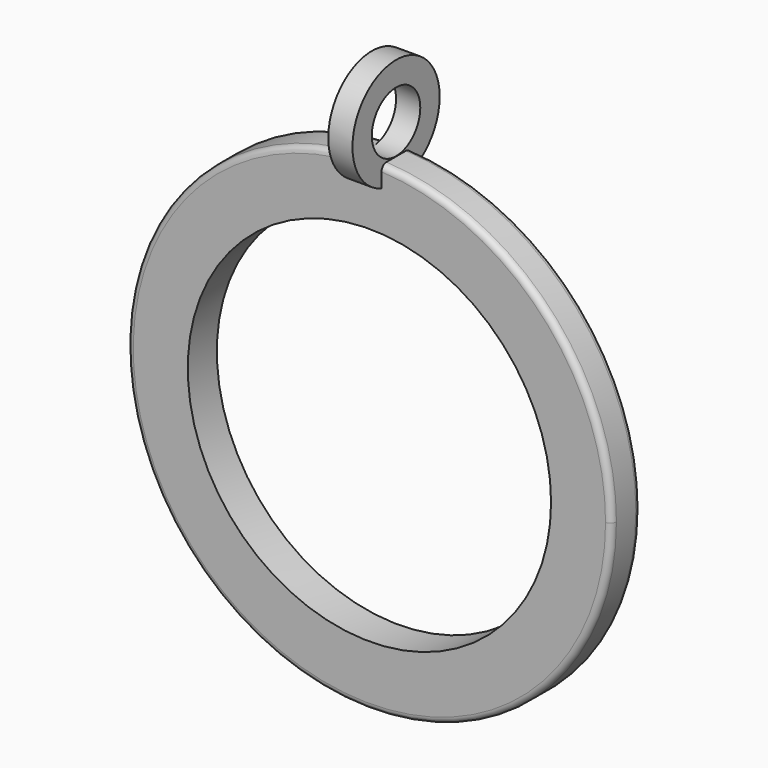
from build123d import *

# Parameters (mm, degrees)
F0_R     = 8
F0_R_2   = 6
F1_DEPTH = 0.6
F2_R     = 1.8
F2_R_2   = 1
F3_DEPTH = 0.4
F4_R     = 0.2


with BuildPart() as f1:
    # F0 (on Front) → F1 (new body, symmetric)
    with BuildSketch(Plane.XZ):
        Circle(F0_R)
        Circle(F0_R_2, mode=Mode.SUBTRACT)
    extrude(amount=F1_DEPTH, both=True)

    # F2 (on Right) → F3 (join, symmetric)
    with BuildSketch(Plane.YZ):
        with Locations((0, 9)):
            Circle(F2_R)
        with Locations((0, 9)):
            Circle(F2_R_2, mode=Mode.SUBTRACT)
    extrude(amount=F3_DEPTH, both=True)

    # F4
    f4_edges = [f1.edges().sort_by_distance(p)[0] for p in [
        (-5.51362, -0.6, -5.796551),
        (-5.51362, 0.6, -5.796551),
    ]]
    fillet(f4_edges, radius=F4_R)


solid = f1.part
